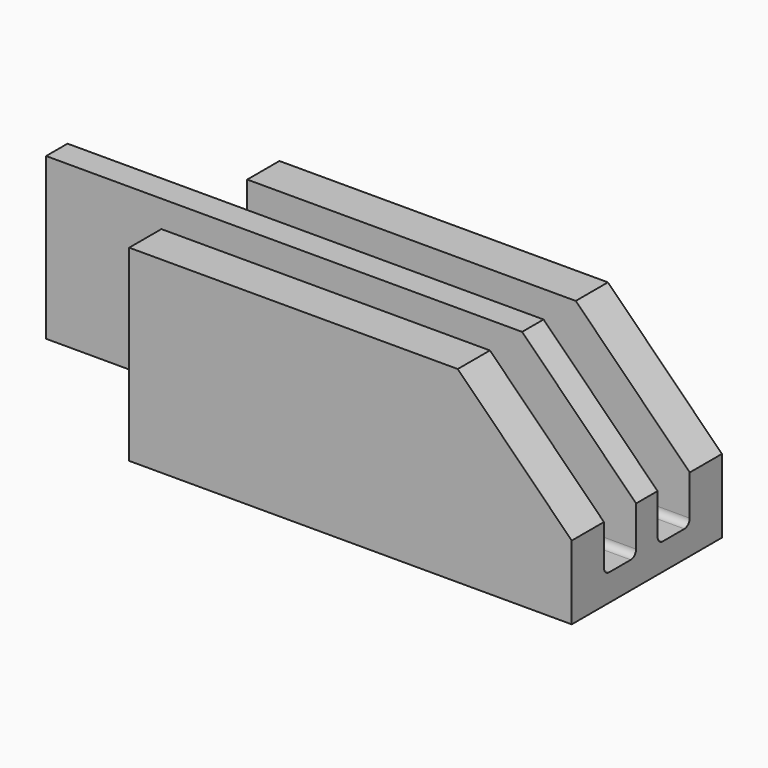
from build123d import *

# Parameters (mm, degrees)
F0_W     = 292.1
F0_H     = 44.45
F1_DEPTH = 25.4
F3_DEPTH = 152.4
F4_W     = 292.1
F4_H     = 38.1
F5_DEPTH = 152.4
F6_SIZE  = 107.95
F7_W     = 25.4
F7_H     = 152.4
F8_DEPTH = 266.7
F9_R     = 6.35
F10_R    = 6.35


with BuildPart() as f1:
    # F0 (on Top) → F1 (new body)
    with BuildSketch(Plane.XY):
        Polygon((390.6061206371, 24.8817224056), (-28.4938793629, 24.8817224056), (-28.4938793629, -13.2182775944), (98.5061206371, -13.2182775944), (390.6061206371, -13.2182775944), align=None)
        with Locations((244.5561206371, -35.4432775944)):
            Rectangle(F0_W, F0_H)
        Polygon((390.6061206371, -70.3682775944), (390.6061206371, -57.6682775944), (98.5061206371, -57.6682775944), (98.5061206371, -64.0182775944), (98.5061206371, -70.3682775944), align=None)
        with Locations((244.5561206371, -92.5932775944)):
            Rectangle(F0_W, F0_H)
        Polygon((390.6061206371, -152.9182775944), (390.6061206371, -114.8182775944), (98.5061206371, -114.8182775944), (-28.4938793629, -114.8182775944), (-28.4938793629, -152.9182775944), align=None)
    extrude(amount=F1_DEPTH)

    # F3 (add): a face of the model
    f3_faces = [f1.faces().sort_by_distance(p)[0] for p in [
        (211.6425080716, -64.0182775944, 25.4),
    ]]
    extrude(f3_faces, amount=F3_DEPTH)

    # F4 (on face) → F5 (cut)
    with BuildSketch(Plane.XY.offset(177.8)):
        with Locations((244.5561206371, -32.2682775944)):
            Rectangle(F4_W, F4_H)
        with Locations((244.5561206371, -95.7682775944)):
            Rectangle(F4_W, F4_H)
    extrude(amount=-F5_DEPTH, mode=Mode.SUBTRACT)

    # F6
    f6_edges = [f1.edges().sort_by_distance(p)[0] for p in [
        (390.606121, -133.868278, 177.8),
        (390.606121, -64.018278, 177.8),
        (390.606121, 5.831722, 177.8),
    ]]
    chamfer(f6_edges, length=F6_SIZE)

    # F7 (on face) → F8 (join)
    with BuildSketch(Plane(origin=(98.5061206371, 0, 0), x_dir=(0, -1, 0), z_dir=(-1, 0, 0))):
        with Locations((64.0182775944, 101.6)):
            Rectangle(F7_W, F7_H)
    extrude(amount=F8_DEPTH)

    # F9
    f9_edges = [f1.edges().sort_by_distance(p)[0] for p in [
        (244.556121, -114.818278, 25.4),
    ]]
    fillet(f9_edges, radius=F9_R)

    # F10
    f10_edges = [f1.edges().sort_by_distance(p)[0] for p in [
        (244.556121, -51.318278, 25.4),
        (244.556121, -76.718278, 25.4),
        (244.556121, -13.218278, 25.4),
    ]]
    fillet(f10_edges, radius=F10_R)


solid = f1.part
